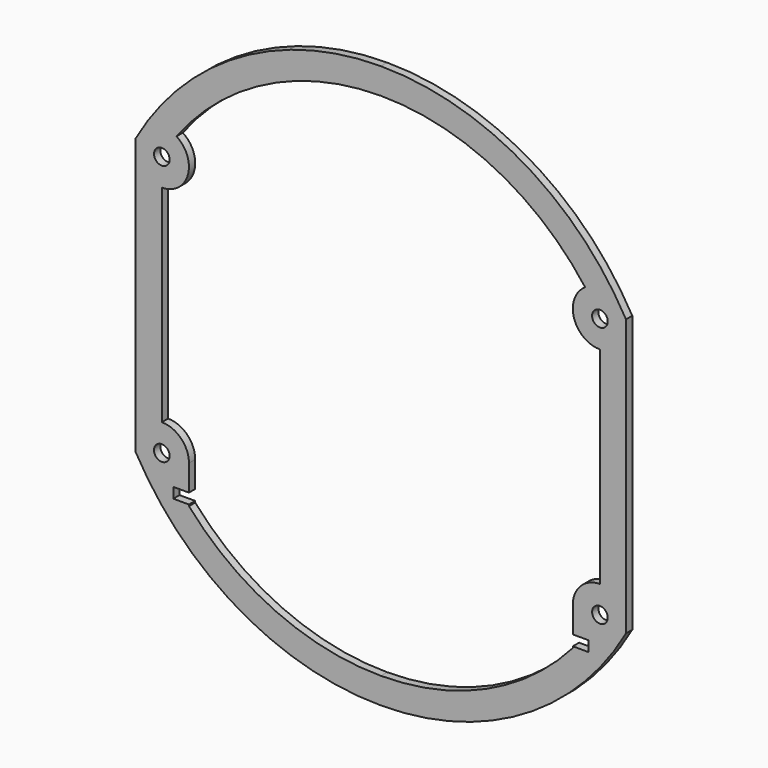
from build123d import *

# Parameters (mm, degrees)
F0_R     = 1.5
F1_DEPTH = 1.5


with BuildPart() as f1:
    # F0 (on Front) → F1 (new body)
    with BuildSketch(Plane.XZ):
        with BuildLine():
            ThreePointArc((0, 53.956001), (-27.215951, 46.589076), (-47, 26.5))
            Line((-47, 26.5), (-47, -26.5))
            ThreePointArc((-47, -26.5), (-27.215951, -46.589076), (0, -53.956001))
            ThreePointArc((0, -53.956001), (27.215951, -46.589076), (47, -26.5))
            Line((47, -26.5), (47, 26.5))
            ThreePointArc((47, 26.5), (27.215951, 46.589076), (0, 53.956001))
        make_face()
        with Locations((-42, -25)):
            Circle(F0_R, mode=Mode.SUBTRACT)
        with Locations((42, -25)):
            Circle(F0_R, mode=Mode.SUBTRACT)
        with Locations((-42, 25)):
            Circle(F0_R, mode=Mode.SUBTRACT)
        with BuildLine():
            ThreePointArc((-42, 19.8), (-37.01342, 23.525544), (-39.172119, 29.363839))
            ThreePointArc((-39.172119, 29.363839), (-21.899245, 43.784849), (0, 48.956))
            ThreePointArc((0, 48.956), (21.899245, 43.784849), (39.172119, 29.363839))
            ThreePointArc((39.172119, 29.363839), (37.01342, 23.525544), (42, 19.8))
            Line((42, 19.8), (42, -19.8))
            ThreePointArc((42, -19.8), (38.323045, -21.323045), (36.8, -25))
            Line((36.8, -25), (36.8, -30))
            Line((36.8, -30), (39.8, -30))
            Line((39.8, -30), (39.8, -32))
            Line((39.8, -32), (37.04983, -32))
            Line((37.04983, -32), (36.8, -32))
            Line((36.8, -32), (36.8, -32.286993))
            ThreePointArc((36.8, -32.286993), (20.199603, -44.594461), (0, -48.956))
            ThreePointArc((0, -48.956), (-20.199603, -44.594461), (-36.8, -32.286993))
            Line((-36.8, -32.286993), (-36.8, -32))
            Line((-36.8, -32), (-37.04983, -32))
            Line((-37.04983, -32), (-39.8, -32))
            Line((-39.8, -32), (-39.8, -30))
            Line((-39.8, -30), (-36.8, -30))
            Line((-36.8, -30), (-36.8, -25))
            ThreePointArc((-36.8, -25), (-38.323045, -21.323045), (-42, -19.8))
            Line((-42, -19.8), (-42, 19.8))
        make_face(mode=Mode.SUBTRACT)
        with Locations((42, 25)):
            Circle(F0_R, mode=Mode.SUBTRACT)
    extrude(amount=F1_DEPTH)


solid = f1.part
